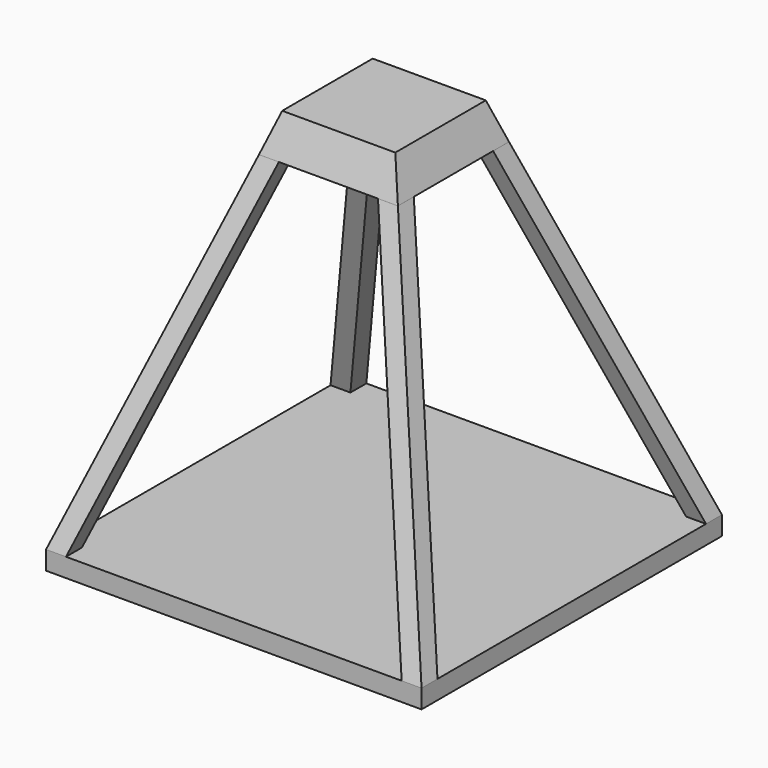
from build123d import *

# Parameters (mm, degrees)
F0_W      = 127
F0_H      = 127
F1_DEPTH  = 6.35
F3_W      = 46.99
F3_H      = 46.99
F4_DEPTH  = 12.7
F7_W      = 6.731
F7_H      = 6.731
F10_COUNT = 4
F12_SIZE2 = 12.6879164824
F12_SIZE  = 4.3688


with BuildPart() as f1:
    # F0 (on Top) → F1 (new body)
    with BuildSketch(Plane.XY):
        Rectangle(F0_W, F0_H)
    extrude(amount=F1_DEPTH)


with BuildPart() as f4:
    # F3 (on offset) → F4 (new body)
    with BuildSketch(Plane.XY.offset(120.65)):
        Rectangle(F3_W, F3_H)
    extrude(amount=F4_DEPTH)

    # F12
    f12_edges = [f4.edges().sort_by_distance(p)[0] for p in [
        (-23.495, 0, 133.35),
        (0, -23.495, 133.35),
        (0, 23.495, 133.35),
        (23.495, 0, 133.35),
    ]]
    f12_side = f4.faces().sort_by_distance((0, 0, 133.35))[0]
    chamfer(f12_edges, length=F12_SIZE, length2=F12_SIZE2, reference=f12_side)


with BuildPart() as f8:
    # F8: sweep along a path in F6
    with BuildLine(Plane(origin=(0, 0, 0), x_dir=(0.7071067812, 0.7071067812, 0), z_dir=(0.7071067812, -0.7071067812, 0))) as f8_path:
        Line((-89.8025612107, 6.35), (-33.226947648, 120.65))
    # F7 (on face) → F8 (sweep)
    with BuildSketch(Plane.XY.offset(6.35)):
        with Locations((-60.1345, -60.1345)):
            Rectangle(F7_W, F7_H)
    sweep(path=f8_path.line)


with BuildPart() as f10_1:
    # F10: instance of F8
    add(f8.part.rotate(Axis((0, 0, 254), (0, 0, 1)), 1 * 360 / F10_COUNT))


with BuildPart() as f10_2:
    # F10: instance of F8
    add(f8.part.rotate(Axis((0, 0, 254), (0, 0, 1)), 2 * 360 / F10_COUNT))


with BuildPart() as f10_3:
    # F10: instance of F8
    add(f8.part.rotate(Axis((0, 0, 254), (0, 0, 1)), 3 * 360 / F10_COUNT))


solid = Compound([f1.part, f4.part, f8.part, f10_1.part, f10_2.part, f10_3.part])
